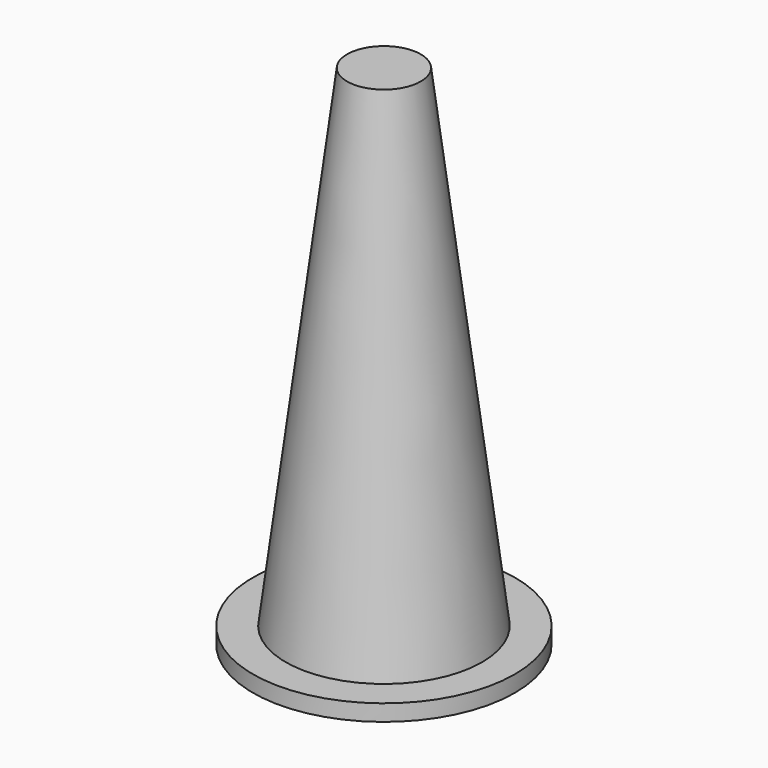
from build123d import *

# Parameters (mm, degrees)
F2_R     = 4.5
F0_R     = 12
F4_R     = 16
F5_DEPTH = 2


with BuildPart() as f3:
    # F2 (on offset) → F3 section 0
    with BuildSketch(Plane.XY.offset(60)):
        Circle(F2_R)
    # F0 (on Top) → F3 section 1
    with BuildSketch(Plane.XY):
        Circle(F0_R)
    loft()

    # F4 (on Top) → F5 (join)
    with BuildSketch(Plane.XY):
        Circle(F4_R)
    extrude(amount=-F5_DEPTH)


solid = f3.part
